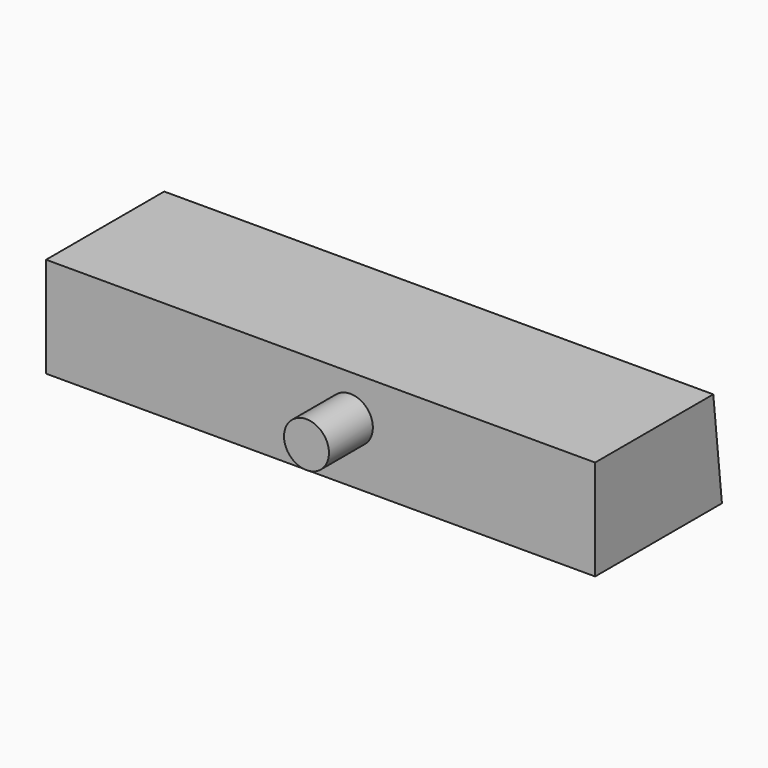
from build123d import *

# Parameters (mm, degrees)
F1_DEPTH = 254
F2_R     = 10.393526
F3_DEPTH = 25.4


with BuildPart() as f1:
    # F0 (on Right) → F1 (new body)
    with BuildSketch(Plane.YZ):
        Polygon((73.321618, 0), (68.32242, 46.414401), (0, 46.414401), (0, 0), align=None)
    extrude(amount=F1_DEPTH)

    # F2 (on face) → F3 (join)
    with BuildSketch(Plane.XZ):
        with Locations((140.782937, 27.210025)):
            Circle(F2_R)
    extrude(amount=F3_DEPTH)


solid = f1.part
